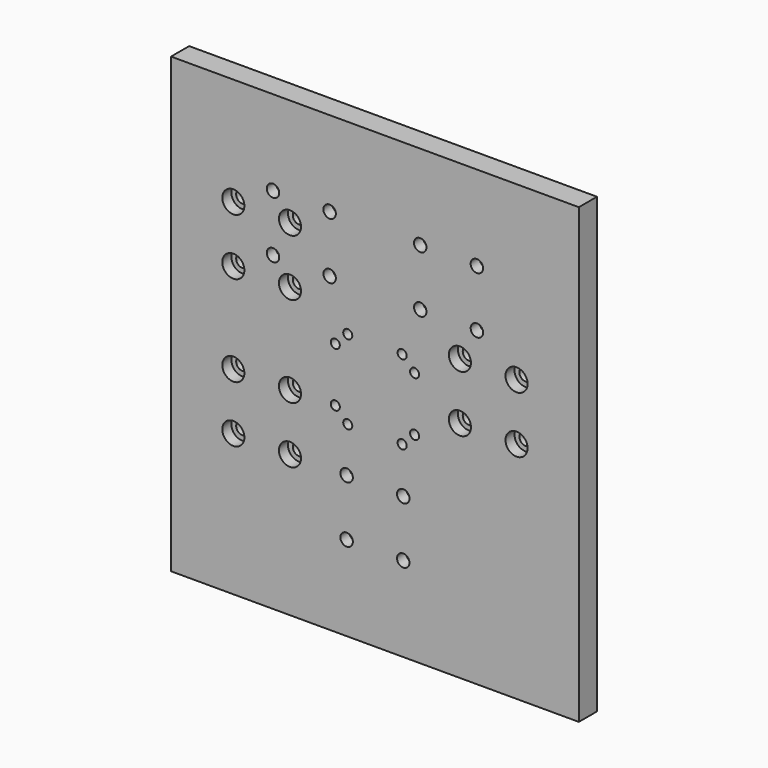
from build123d import *

# Parameters (mm, degrees)
F0_W           = 180
F0_H           = 200
F1_DEPTH       = 10
F2_D           = 5.5
F2_CBORE_D     = 9.75
F2_CBORE_DEPTH = 5
F4_D           = 5.5
F4_CBORE_D     = 9.75
F4_CBORE_DEPTH = 5
F6_D           = 4


with BuildPart() as f1:
    # F0 (on Front) → F1 (new body)
    with BuildSketch(Plane.XZ):
        Rectangle(F0_W, F0_H)
    extrude(amount=F1_DEPTH)

    # F2 (through all)
    with Locations(Plane(origin=(0, 0, 0), x_dir=(1, 0, 0), z_dir=(0, 1, 0))):
        with Locations((-45, -62.5), (-20, -62.5), (-20, -37.5), (-45, -37.5), (20, -62.5), (45, -62.5), (45, -37.5), (20, -37.5), (12.5, 37.5), (-12.5, 37.5), (-12.5, 62.5), (12.5, 62.5)):
            CounterBoreHole(F2_D / 2, F2_CBORE_D / 2, F2_CBORE_DEPTH)

    # F4 (through all)
    with Locations(Plane.XZ.offset(10)):
        with Locations((-62.5, -37.5), (-62.5, -12.5), (-37.5, -12.5), (-37.5, -37.5), (-62.5, 27.5), (-62.5, 52.5), (-37.5, 52.5), (-37.5, 27.5), (37.5, -1), (37.5, 24), (62.5, 24), (62.5, -1)):
            CounterBoreHole(F4_D / 2, F4_CBORE_D / 2, F4_CBORE_DEPTH)

    # F6 (through all)
    with Locations(Plane.XZ.offset(10)):
        with Locations((-17.5, 12), (-17.5, -12), (17.5, -12), (17.5, 12), (-12, 17.5), (12, 17.5), (12, -17.5), (-12, -17.5)):
            Hole(F6_D / 2)


solid = f1.part
